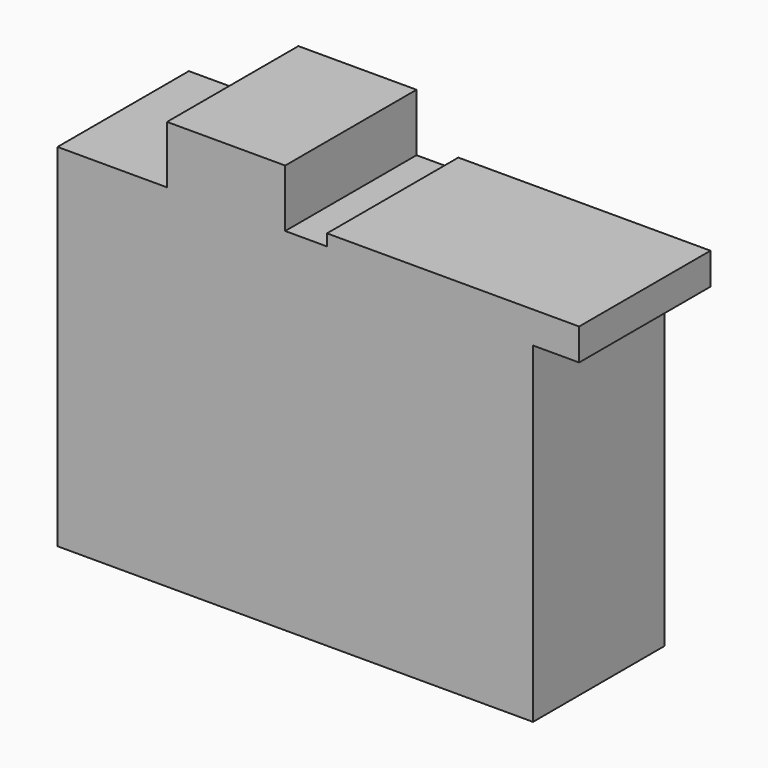
from build123d import *

# Parameters (mm, degrees)
F0_W     = 18.2787082158
F0_H     = 8.9164394885
F0_W_2   = 7.1331523359
F0_H_2   = 4.9040447921
F0_H_3   = 18.2787058875
F0_W_3   = 41.6843630373
F0_H_4   = 28.0867889524
F0_W_4   = 31.8762771785
F1_DEPTH = 25.4


with BuildPart() as f1:
    # F0 (on Front) → F1 (new body)
    with BuildSketch(Plane.XZ):
        with Locations((-15.6037725974, 30.7617252693)):
            Rectangle(F0_W, F0_H)
        with Locations((35.4428533465, 25.6347721443)):
            Rectangle(F0_W_2, F0_H_2)
        with Locations((-15.6037725974, 17.1641525812)):
            Rectangle(F0_W, F0_H_3)
        with Locations((-20.8421815187, -14.0433944762)):
            Rectangle(F0_W_3, F0_H_4)
        Polygon((-41.6843630373, 0), (0, 0), (0, 26.303505525), (-6.4644184895, 26.303505525), (-6.4644184895, 8.0247996375), (-24.7431267053, 8.0247996375), (-24.7431267053, 26.303505525), (-41.6843630373, 26.303505525), align=None)
        Polygon((0, 26.303505525), (0, 0), (31.8762771785, 0), (31.8762771785, 23.1827497482), (31.8762771785, 28.0867945403), (0, 28.0867945403), align=None)
        with Locations((15.9381385893, -14.0433944762)):
            Rectangle(F0_W_4, F0_H_4)
    extrude(amount=F1_DEPTH)


solid = f1.part
